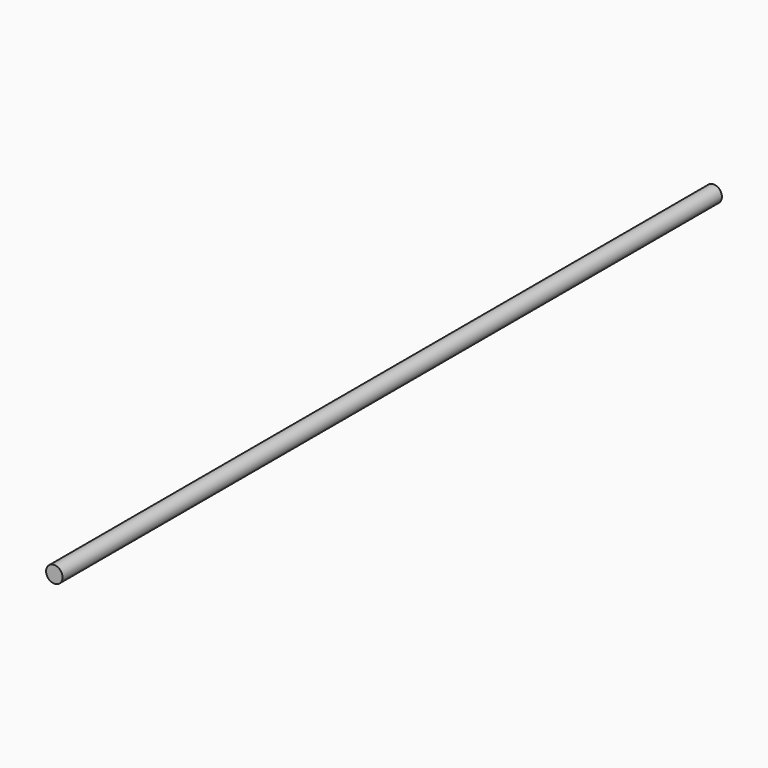
from build123d import *

# Parameters (mm, degrees)
SKETCH_R  = 4
PAD_DEPTH = 400


with BuildPart() as part:
    # Sketch → Pad (new body)
    with BuildSketch(Plane.XZ):
        Circle(SKETCH_R)
    extrude(amount=PAD_DEPTH)


solid = part.part
